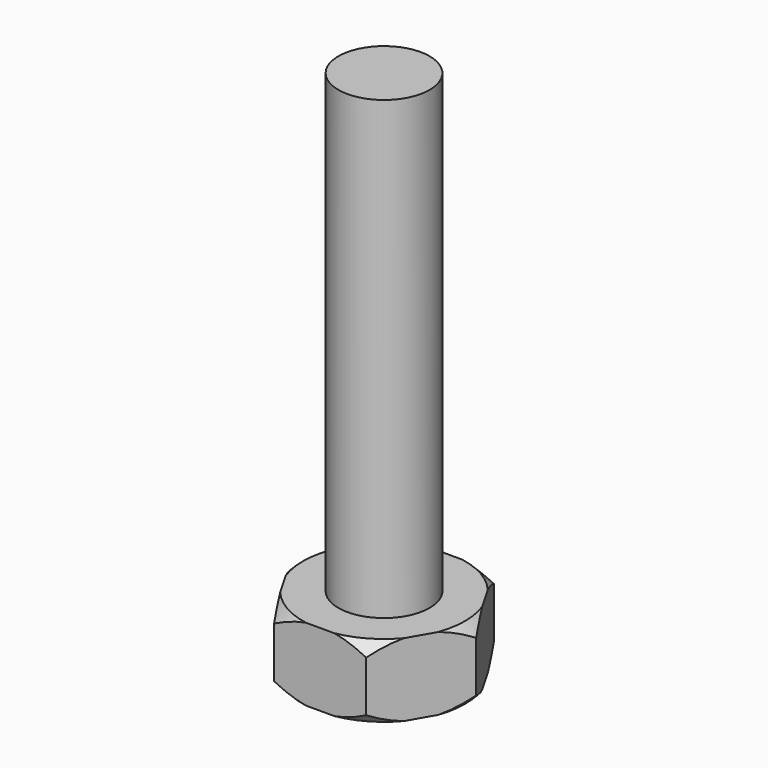
from build123d import *

# Parameters (mm, degrees)
PAD_DEPTH    = 1.6
SKETCH_R     = 2
PAD001_DEPTH = 20


with BuildPart() as part:
    # Sketch001 → Pad (new body, symmetric)
    with BuildSketch(Plane(origin=(0, 0, 0), x_dir=(1, 0, 0), z_dir=(0, 0, -1))):
        Polygon((4.041452, 0), (2.020726, 3.5), (-2.020726, 3.5), (-4.041452, 0), (-2.020726, -3.5), (2.020726, -3.5), align=None)
    extrude(amount=PAD_DEPTH, both=True)

    # Sketch (on Face7 of Pad) → Pad001 (join)
    with BuildSketch(Plane.XY.offset(1.6)):
        Circle(SKETCH_R)
    extrude(amount=PAD001_DEPTH)

    # Sketch002 → Groove (revolve, cut)
    with BuildSketch(Plane.XZ):
        Polygon((3.100253, 2.054888), (4.213852, 0.941288), (4.213852, -0.941288), (3.100253, -2.054888), (5.186611, -2.054888), (5.186611, 2.054888), align=None)
    revolve(axis=Axis((0, 0, 0), (0, 0, 1)), mode=Mode.SUBTRACT)


solid = part.part
